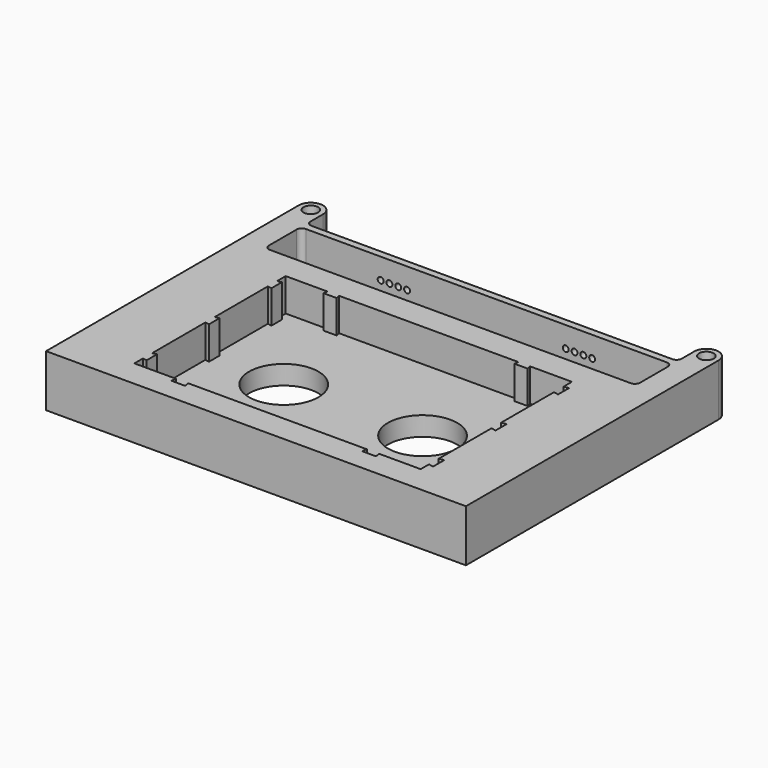
from build123d import *

# Parameters (mm, degrees)
PAD001_DEPTH    = 9.5
SKETCH_R        = 2.1
PAD_DEPTH       = 15
POCKET_DEPTH    = 13
SKETCH003_R     = 10
POCKET001_DEPTH = 5.501
SKETCH004_R     = 0.85
POCKET002_DEPTH = 2


with BuildPart() as obj1:
    # Sketch002 → Pad001 (new body)
    with BuildSketch(Plane.XY):
        Polygon((-41.25, 27.25), (-29.15, 27.25), (-29.4, 26.05), (-25.6, 26.05), (-25.85, 27.25), (25.85, 27.25), (25.6, 26.05), (29.4, 26.05), (29.15, 27.25), (41.25, 27.25), (41.25, 24.25), (42.65, 24.5), (42.65, 20.5), (41.25, 20.75), (41.25, 1.75), (42.65, 2), (42.65, -2), (41.25, -1.75), (41.25, -20.75), (42.65, -20.5), (42.65, -24.5), (41.25, -24.25), (41.25, -27.25), (29.25, -27.25), (29.5, -28.65), (25.5, -28.65), (25.75, -27.25), (-25.75, -27.25), (-25.5, -28.65), (-29.5, -28.65), (-29.25, -27.25), (-41.25, -27.25), (-41.25, -24.15), (-40.05, -24.4), (-40.05, -20.6), (-41.25, -20.85), (-41.25, -1.65), (-40.05, -1.9), (-40.05, 1.9), (-41.25, 1.65), (-41.25, 20.85), (-40.05, 20.6), (-40.05, 24.4), (-41.25, 24.15), align=None)
    extrude(amount=-PAD001_DEPTH)


with BuildPart() as body:
    # Sketch → Pad (new body)
    with BuildSketch(Plane.XY):
        with BuildLine():
            Line((-52, 50), (52, 50))
            ThreePointArc((52, 50), (53.06066, 50.43934), (53.5, 51.5))
            Line((53.5, 51.5), (53.5, 56))
            ThreePointArc((60.5, 56), (57, 59.5), (53.5, 56))
            Line((60.5, 56), (60.5, -35))
            Line((60.5, -35), (-60.5, -35))
            Line((-60.5, 56), (-60.5, -35))
            ThreePointArc((-53.5, 56), (-57, 59.5), (-60.5, 56))
            Line((-53.5, 51.5), (-53.5, 56))
            ThreePointArc((-53.5, 51.5), (-53.06066, 50.43934), (-52, 50))
        make_face()
        with Locations((-57, 56)):
            Circle(SKETCH_R, mode=Mode.SUBTRACT)
        with Locations((57, 56)):
            Circle(SKETCH_R, mode=Mode.SUBTRACT)
    extrude(amount=-PAD_DEPTH)

    # Sketch001 (on Face13 of Pad) → Pocket (cut)
    with BuildSketch(Plane.XY):
        with BuildLine():
            Line((-52, 48), (52, 48))
            ThreePointArc((53.5, 46.5), (53.06066, 47.56066), (52, 48))
            Line((53.5, 46.5), (53.5, 36.5))
            ThreePointArc((52, 35), (53.06066, 35.43934), (53.5, 36.5))
            Line((52, 35), (-52, 35))
            ThreePointArc((-53.5, 36.5), (-53.06066, 35.43934), (-52, 35))
            Line((-53.5, 36.5), (-53.5, 46.5))
            ThreePointArc((-52, 48), (-53.06066, 47.56066), (-53.5, 46.5))
        make_face()
    extrude(amount=-POCKET_DEPTH, mode=Mode.SUBTRACT)

    # Boolean: cut obj1
    add(obj1.part, mode=Mode.SUBTRACT)

    # Sketch003 (on Face68 of Boolean) → Pocket001 (cut, through all)
    with BuildSketch(Plane.XY.offset(-9.5)):
        with Locations((-20, 0)):
            Circle(SKETCH003_R)
        with Locations((20, 0)):
            Circle(SKETCH003_R)
    extrude(amount=-POCKET001_DEPTH, mode=Mode.SUBTRACT)

    # Sketch004 (on Face3 of Pocket001) → Pocket002 (cut)
    with BuildSketch(Plane(origin=(0, 50, 0), x_dir=(-1, 0, 0), z_dir=(0, 1, 0))):
        with Locations((-30.48, -6)):
            Circle(SKETCH004_R)
        with Locations((-27.94, -6)):
            Circle(SKETCH004_R)
        with Locations((-25.4, -6)):
            Circle(SKETCH004_R)
        with Locations((-22.86, -6)):
            Circle(SKETCH004_R)
        with Locations((22.86, -6)):
            Circle(SKETCH004_R)
        with Locations((25.4, -6)):
            Circle(SKETCH004_R)
        with Locations((27.94, -6)):
            Circle(SKETCH004_R)
        with Locations((30.48, -6)):
            Circle(SKETCH004_R)
    extrude(amount=-POCKET002_DEPTH, mode=Mode.SUBTRACT)


solid = body.part
